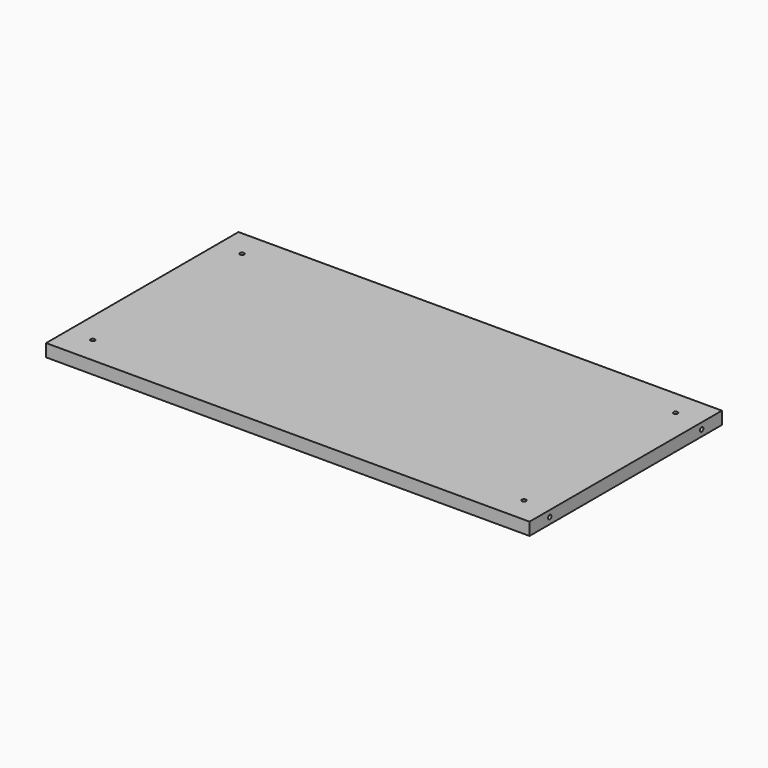
from build123d import *

# Parameters (mm, degrees)
F0_W     = 730.25
F0_H     = 363.212101
F0_R     = 3.175
F1_DEPTH = 19.05
F3_R     = 3.175
F4_DEPTH = 805.434


with BuildPart() as f1:
    # F0 (on Top) → F1 (new body)
    with BuildSketch(Plane.XY):
        with Locations((0.634938, -0.972606)):
            Rectangle(F0_W, F0_H)
        with Locations((-326.390062, -141.938657)):
            Circle(F0_R, mode=Mode.SUBTRACT)
        with Locations((326.666253, -144.221899)):
            Circle(F0_R, mode=Mode.SUBTRACT)
        with Locations((-326.390062, 139.993444)):
            Circle(F0_R, mode=Mode.SUBTRACT)
        with Locations((326.666253, 142.276686)):
            Circle(F0_R, mode=Mode.SUBTRACT)
    extrude(amount=F1_DEPTH)

    # F3 (on offset) → F4 (cut)
    with BuildSketch(Plane.YZ.offset(373.38)):
        with Locations((-144.478657, 9.525)):
            Circle(F3_R)
        with Locations((142.533444, 9.525)):
            Circle(F3_R)
    extrude(amount=-F4_DEPTH, mode=Mode.SUBTRACT)


solid = f1.part
